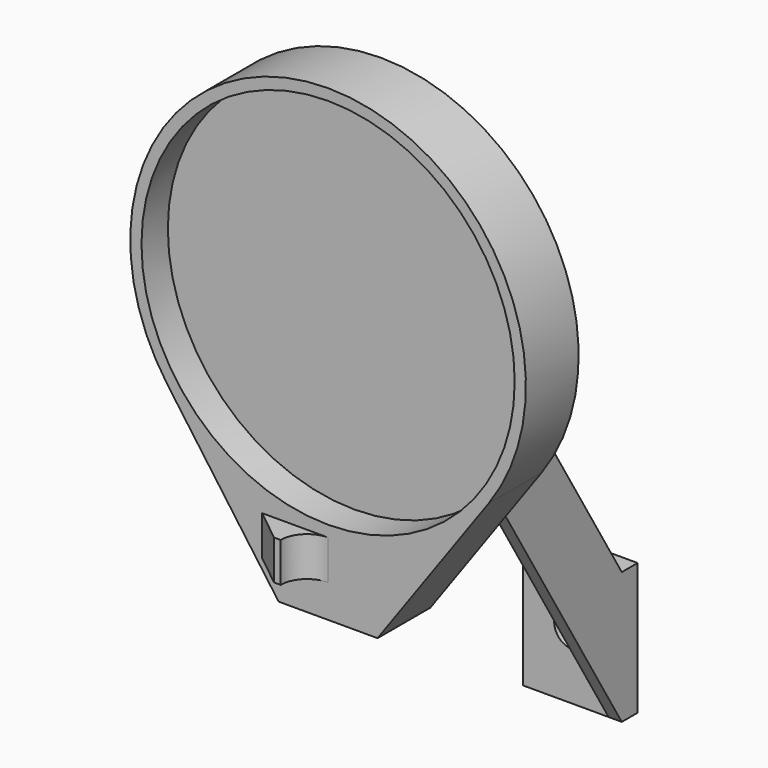
from build123d import *

# Parameters (mm, degrees)
PAD007_DEPTH = 5
SKETCH004_R  = 28.3
POCKET_DEPTH = 5
PAD008_DEPTH = 3
SKETCH_W     = 15
SKETCH_H     = 20
SKETCH_R     = 2.75
PAD_DEPTH    = 3
PAD005_DEPTH = 2
PAD006_DEPTH = 5.5


with BuildPart() as body:
    # Sketch003 (on DatumPlane) → Pad007 (new body, symmetric)
    with BuildSketch(Plane.XZ.offset(41.3)):
        with BuildLine():
            ThreePointArc((24.372074, 43.507087), (0, 91), (-24.372074, 43.507087))
            Line((-24.372074, 43.507087), (-7.5, 20))
            Line((-7.5, 20), (7.5, 20))
            Line((7.5, 20), (24.372074, 43.507087))
        make_face()
    extrude(amount=PAD007_DEPTH, both=True)

    # Sketch004 (on DatumPlane) → Pocket (cut)
    with BuildSketch(Plane.XZ.offset(41.3)):
        with Locations((0, 61)):
            Circle(SKETCH004_R)
    extrude(amount=POCKET_DEPTH, mode=Mode.SUBTRACT)

    # Sketch005 (on DatumPlane) → Pad008 (join, symmetric)
    with BuildSketch(Plane.XY.offset(28)):
        with BuildLine():
            ThreePointArc((0, -46.3), (-2.828427, -47.471573), (-4, -50.3))
            Line((-4, -50.3), (-5, -50.3))
            Line((-5, -50.3), (-10, -46.3))
            Line((-10, -46.3), (0, -46.3))
        make_face()
    extrude(amount=PAD008_DEPTH, both=True)


with BuildPart() as body001:
    # Sketch → Pad (new body)
    with BuildSketch(Plane.XZ):
        Rectangle(SKETCH_W, SKETCH_H)
        Circle(SKETCH_R, mode=Mode.SUBTRACT)
    extrude(amount=-PAD_DEPTH)

    # Sketch001 (on DatumPlane) → Pad005 (join)
    with BuildSketch(Plane.YZ.offset(7.5)):
        Polygon((0, -10), (-36.3, 50), (-36.3, 70), (0, 10), align=None)
    extrude(amount=-PAD005_DEPTH)

    # Sketch002 → Pad006 (join, symmetric)
    with BuildSketch(Plane.YZ):
        Polygon((0, 10), (-36.3, 70), (-36.3, 68), (0, 8), align=None)
    extrude(amount=PAD006_DEPTH, both=True)


solid = Compound([body.part, body001.part])
